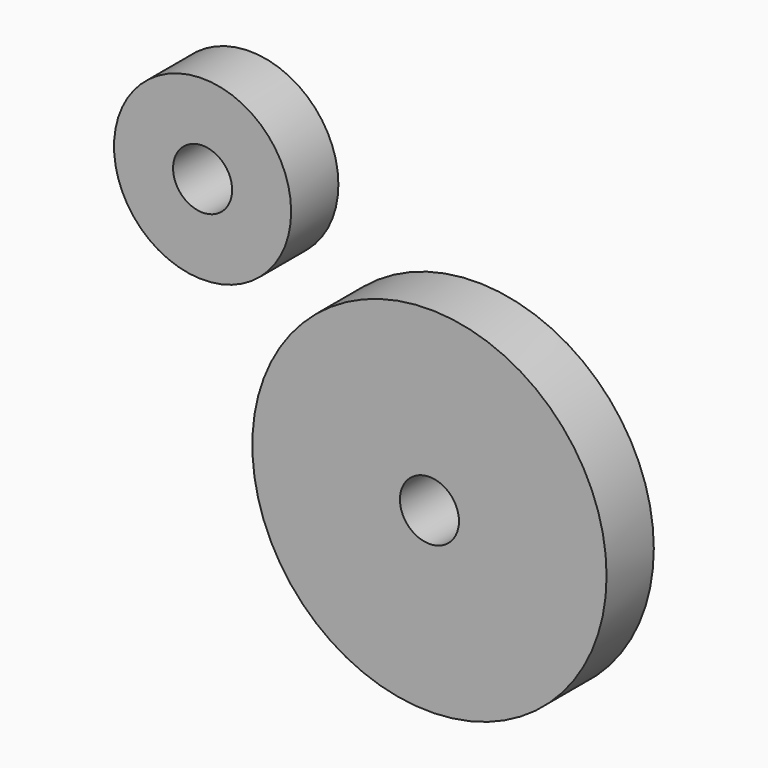
from build123d import *

# Parameters (mm, degrees)
F0_R     = 38.1
F0_R_2   = 6.35
F0_R_3   = 19.05
F1_DEPTH = 12.7


with BuildPart() as f1:
    # F0 (on Front) → F1 (new body)
    with BuildSketch(Plane.XZ):
        Circle(F0_R)
        Circle(F0_R_2, mode=Mode.SUBTRACT)
        with Locations((-48.799555, 46.873532)):
            Circle(F0_R_3)
        with Locations((-48.799555, 46.873532)):
            Circle(F0_R_2, mode=Mode.SUBTRACT)
    extrude(amount=F1_DEPTH)


solid = f1.part
